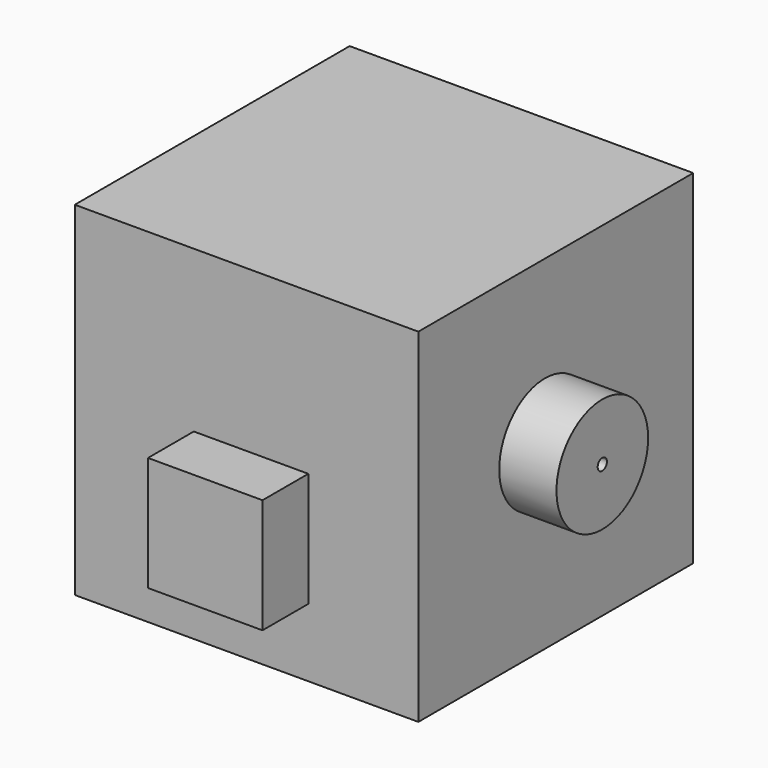
from build123d import *

# Parameters (mm, degrees)
F0_W     = 76.2
F0_H     = 76.2
F1_DEPTH = 76.2
F3_DEPTH = 12.7
F4_R     = 12.7
F4_R_2   = 1.279646
F5_DEPTH = 12.7


with BuildPart() as f1:
    # F0 (on Front) → F1 (new body)
    with BuildSketch(Plane.XZ):
        with Locations((-0.882402, 69.589193)):
            Rectangle(F0_W, F0_H)
    extrude(amount=F1_DEPTH)

    # F2 (on face) → F3 (join)
    with BuildSketch(Plane.XZ.offset(76.2)):
        Polygon((0.113132, 71.998739), (-12.586868, 71.998739), (-12.586868, 46.598739), (12.813132, 46.598739), (12.813132, 71.998739), align=None)
    extrude(amount=F3_DEPTH)

    # F4 (on face) → F5 (join)
    with BuildSketch(Plane.YZ.offset(37.217598)):
        with Locations((-41.082326, 71.629331)):
            Circle(F4_R)
        with Locations((-41.082326, 71.629331)):
            Circle(F4_R_2, mode=Mode.SUBTRACT)
    extrude(amount=F5_DEPTH)


solid = f1.part
